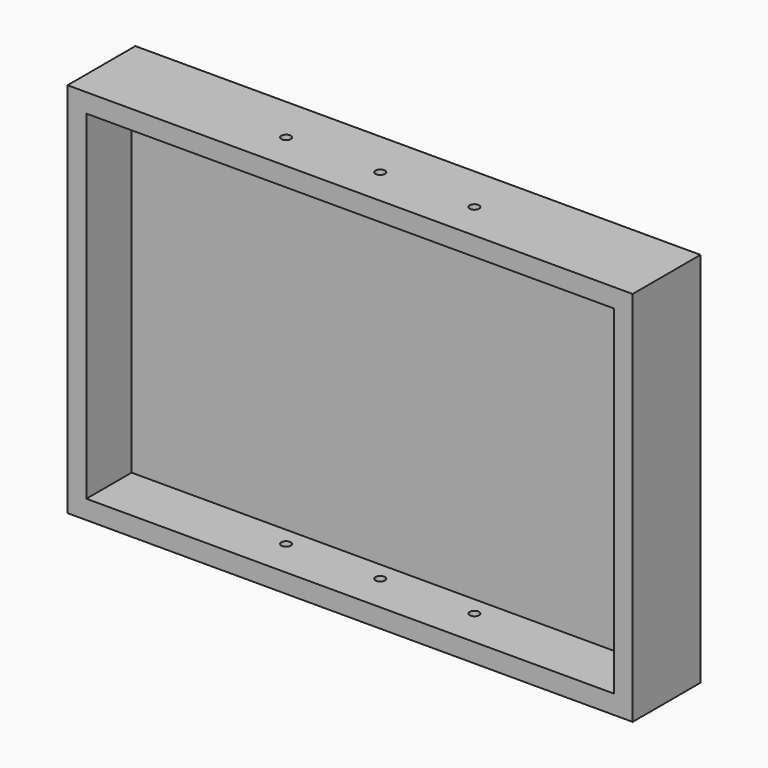
from build123d import *

# Parameters (mm, degrees)
F0_W     = 300
F0_H     = 200
F1_DEPTH = 45
F2_W     = 280
F2_H     = 180
F3_DEPTH = 30
F4_R     = 2.5
F5_DEPTH = 200.001


with BuildPart() as f1:
    # F0 (on Front) → F1 (new body)
    with BuildSketch(Plane.XZ):
        Rectangle(F0_W, F0_H)
    extrude(amount=F1_DEPTH)

    # F2 (on face) → F3 (cut)
    with BuildSketch(Plane.XZ.offset(45)):
        Rectangle(F2_W, F2_H)
    extrude(amount=-F3_DEPTH, mode=Mode.SUBTRACT)

    # F4 (on face) → F5 (cut, through all)
    with BuildSketch(Plane(origin=(0, 0, -100), x_dir=(1, 0, 0), z_dir=(0, 0, -1))):
        with Locations((-50, 25)):
            Circle(F4_R)
        with Locations((0, 25)):
            Circle(F4_R)
        with Locations((50, 25)):
            Circle(F4_R)
    extrude(amount=-F5_DEPTH, mode=Mode.SUBTRACT)


solid = f1.part
